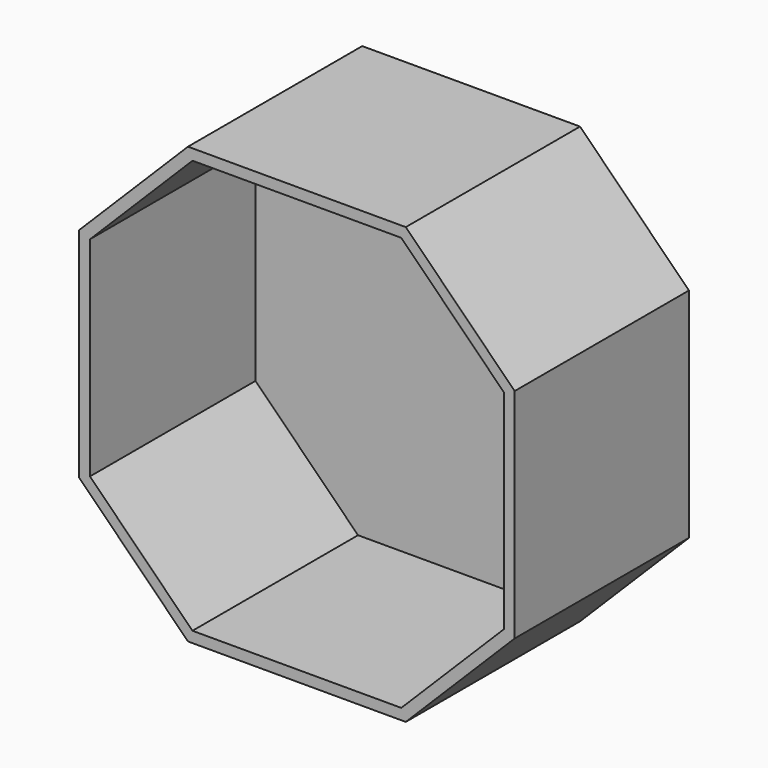
from build123d import *

# Parameters (mm, degrees)
F0_W     = 101.6
F0_H     = 101.6
F1_DEPTH = 25.4
F2_SIZE  = 25.4
F3_T     = -2.54


with BuildPart() as f1:
    # F0 (on Front) → F1 (new body, symmetric)
    with BuildSketch(Plane.XZ):
        Rectangle(F0_W, F0_H)
    extrude(amount=F1_DEPTH, both=True)

    # F2
    f2_edges = [f1.edges().sort_by_distance(p)[0] for p in [
        (-50.8, 0, 50.8),
        (50.8, 0, 50.8),
        (-50.8, 0, -50.8),
        (50.8, 0, -50.8),
    ]]
    chamfer(f2_edges, length=F2_SIZE)

    # F3
    f3_openings = [f1.faces().sort_by_distance(p)[0] for p in [
        (0, -25.4, 0),
    ]]
    offset(amount=F3_T, openings=f3_openings)


solid = f1.part
